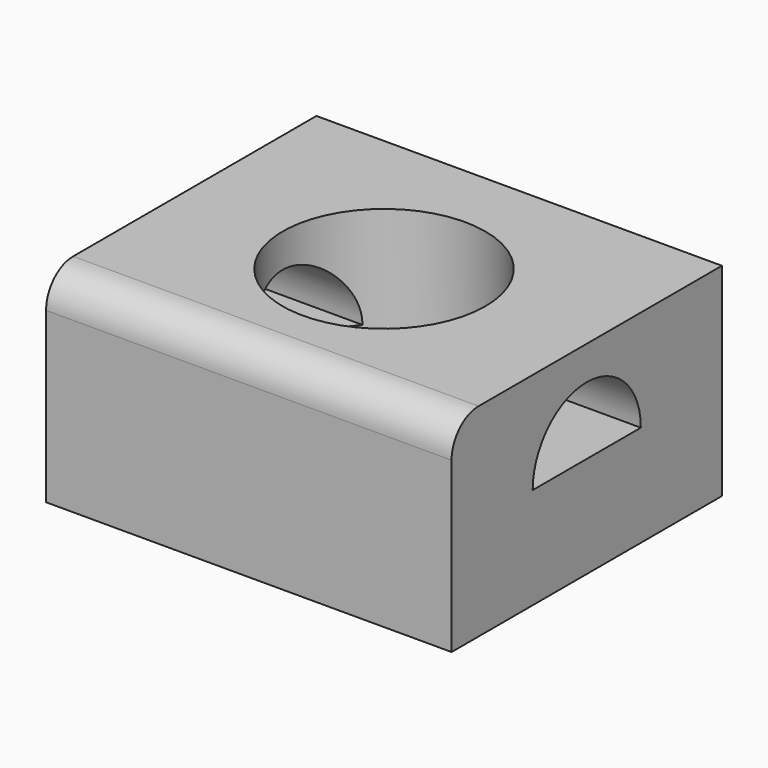
from build123d import *

# Parameters (mm, degrees)
SKETCH_W        = 60
SKETCH_H        = 50
PAD_DEPTH       = 30
SKETCH001_R     = 15
POCKET_DEPTH    = 20
POCKET001_DEPTH = 60.001
FILLET_R        = 5


with BuildPart() as part:
    # Sketch → Pad (new body)
    with BuildSketch(Plane.XY):
        Rectangle(SKETCH_W, SKETCH_H)
    extrude(amount=PAD_DEPTH)

    # Sketch001 (on Face6 of Pad) → Pocket (cut)
    with BuildSketch(Plane.XY.offset(30)):
        Circle(SKETCH001_R)
    extrude(amount=-POCKET_DEPTH, mode=Mode.SUBTRACT)

    # Sketch002 (on Face3 of Pocket) → Pocket001 (cut, through all)
    with BuildSketch(Plane.YZ.offset(30)):
        with BuildLine():
            ThreePointArc((10, 15), (0, 25), (-10, 15))
            Line((-10, 15), (10, 15))
        make_face()
    extrude(amount=-POCKET001_DEPTH, mode=Mode.SUBTRACT)

    # Fillet
    fillet_edges = [part.edges().sort_by_distance(p)[0] for p in [
        (0, -25, 30),
    ]]
    fillet(fillet_edges, radius=FILLET_R)


solid = part.part
